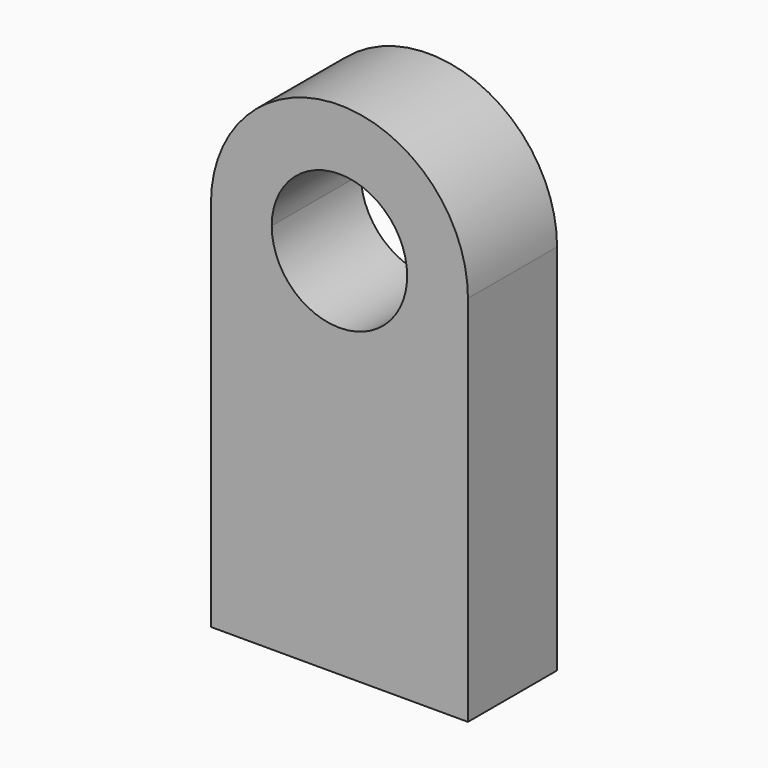
from build123d import *

# Parameters (mm, degrees)
F1_DEPTH = 31.75


with BuildPart() as f1:
    # F0 (on Front) → F1 (new body)
    with BuildSketch(Plane.XZ):
        with BuildLine():
            Line((36.627468, -53.13985), (36.627468, 53.13985))
            Line((36.627468, 53.13985), (19.298664, 53.13985))
            ThreePointArc((19.298664, 53.13985), (0, 33.841186), (-19.298664, 53.13985))
            Line((-19.298664, 53.13985), (-36.627468, 53.13985))
            Line((-36.627468, 53.13985), (-36.627468, -53.13985))
            Line((-36.627468, -53.13985), (36.627468, -53.13985))
        make_face()
        with BuildLine():
            Line((19.298664, 53.13985), (36.627468, 53.13985))
            ThreePointArc((36.627468, 53.13985), (0, 89.767318), (-36.627468, 53.13985))
            Line((-36.627468, 53.13985), (-19.298664, 53.13985))
            ThreePointArc((-19.298664, 53.13985), (0, 72.438515), (19.298664, 53.13985))
        make_face()
    extrude(amount=F1_DEPTH)


solid = f1.part
